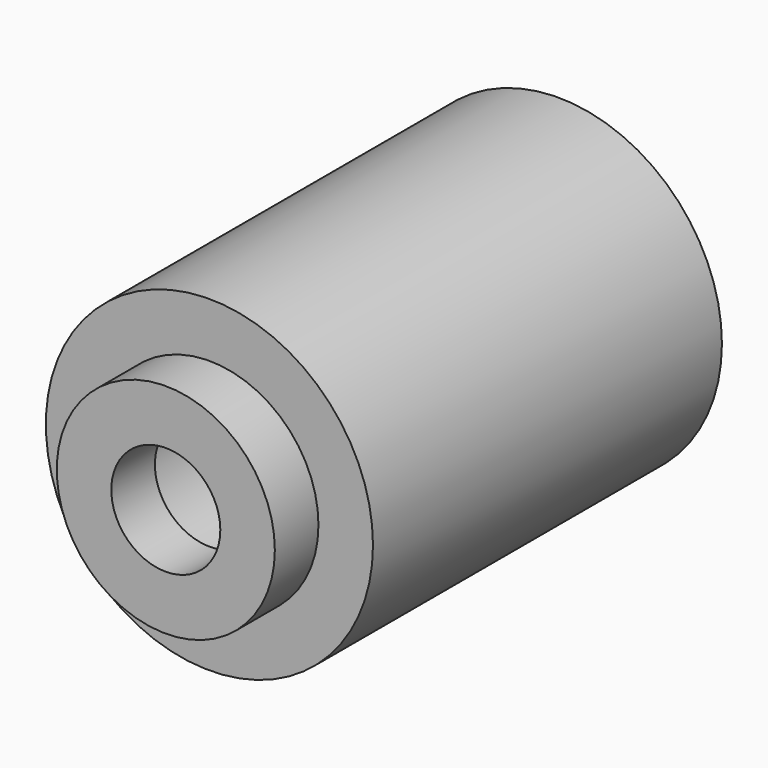
from build123d import *

# Parameters (mm, degrees)
F2_R     = 12.7
F2_R_2   = 6.35
F3_DEPTH = 6.35
F4_R     = 19.05
F4_R_2   = 9.525
F5_DEPTH = 50.8


with BuildPart() as f3:
    # F2 (on Front) → F3 (new body)
    with BuildSketch(Plane.XZ):
        Circle(F2_R)
        Circle(F2_R_2, mode=Mode.SUBTRACT)
    extrude(amount=F3_DEPTH)

    # F4 (on Front) → F5 (join)
    with BuildSketch(Plane.XZ):
        Circle(F4_R)
        Circle(F4_R_2, mode=Mode.SUBTRACT)
    extrude(amount=-F5_DEPTH)


solid = f3.part
